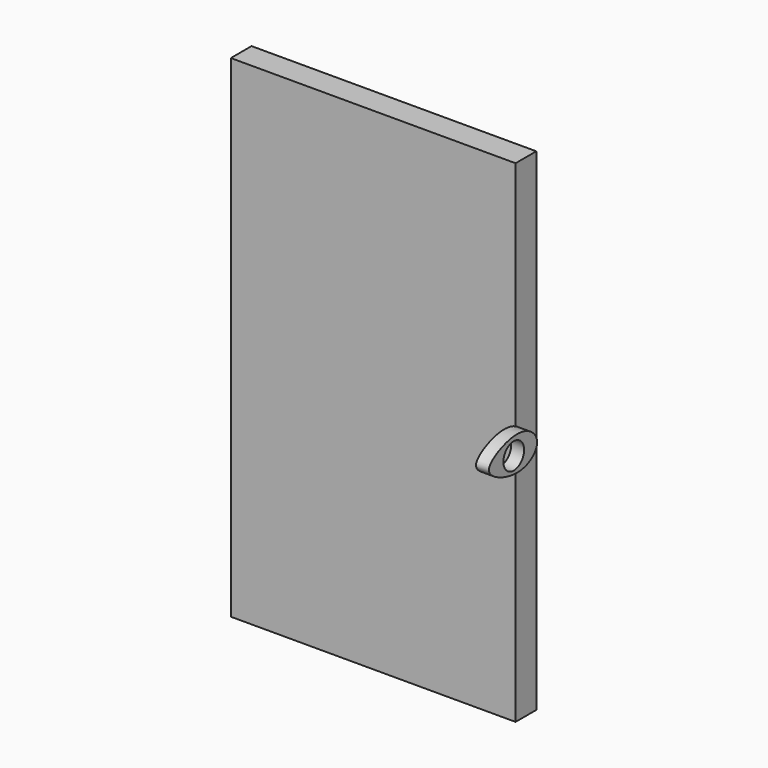
from build123d import *

# Parameters (mm, degrees)
F0_W     = 279.4
F0_H     = 482.6
F1_DEPTH = 25.4
F2_R     = 12.7
F3_DEPTH = 12.7


with BuildPart() as f1:
    # F0 (on Front) → F1 (new body)
    with BuildSketch(Plane.XZ):
        Rectangle(F0_W, F0_H)
    extrude(amount=F1_DEPTH)

    # F2 (on face) → F3 (join)
    with BuildSketch(Plane.YZ.offset(139.7)):
        with BuildLine():
            Line((-25.4, -13.2751120254), (-25.4, 14.0336900949))
            add(Edge.make_bspline(
                [(-25.4, 14.0336900949), (-33.1369744425, 18.0075248491), (-52.7917307065, 18.1189550654), (-84.2034755429, -0.1603764683), (-52.6748487799, -17.139127416), (-33.1450185553, -17.0266077913), (-25.4, -13.2751120254)],
                knots=[0, 0, 0, 0, 0.1843978335, 0.3570613059, 0.5281889509, 0.7125867844, 0.7125867844, 0.7125867844, 0.7125867844], degree=3))
        make_face()
        with Locations((-43.524172157, 0)):
            Circle(F2_R, mode=Mode.SUBTRACT)
        with BuildLine():
            add(Edge.make_bspline(
                [(-25.4, -13.2751120254), (-19.4163554461, -10.376782338), (-10.2157563581, -0.0822527268), (-19.3181303254, 10.9099438214), (-25.4, 14.0336900949)],
                knots=[0.7125867844, 0.7125867844, 0.7125867844, 0.7125867844, 0.8550488179, 1, 1, 1, 1], degree=3))
            Line((-25.4, 14.0336900949), (-25.4, -13.2751120254))
        make_face()
    extrude(amount=F3_DEPTH)


solid = f1.part
